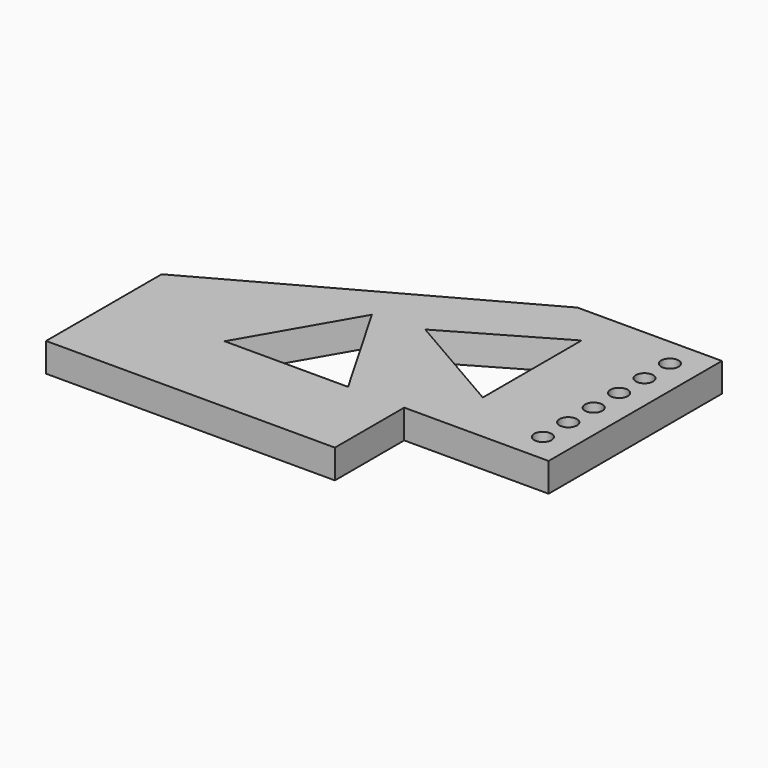
from build123d import *

# Parameters (mm, degrees)
PAD_DEPTH           = 2
SKETCH001_R         = 0.6
HOLE_DEPTH          = 2.001
LINEARPATTERN_COUNT = 6
LINEARPATTERN_PITCH = 2.2
POCKET_DEPTH        = 2.001


with BuildPart() as part:
    # Sketch → Pad (new body)
    with BuildSketch(Plane.XY):
        Polygon((0, 0), (20, 0), (20, 6), (30, 6), (30, 21), (20, 21), (0, 10), align=None)
    extrude(amount=PAD_DEPTH)

    # Sketch001 (on Face9 of Pad) → Hole (cut, through all)
    with BuildSketch(Plane.XY.offset(2)):
        with Locations((28, 19)):
            Circle(SKETCH001_R)
    hole = extrude(amount=-HOLE_DEPTH, mode=Mode.SUBTRACT)

    # LinearPattern: Hole ×6
    with Locations(*[(0, -i * LINEARPATTERN_PITCH, 0) for i in range(1, LINEARPATTERN_COUNT)]):
        add(hole, mode=Mode.SUBTRACT)

    # Sketch002 (on Face5 of LinearPattern) → Pocket (cut, through all)
    with BuildSketch(Plane.XY.offset(2)):
        Polygon((11.837454, 13.403028), (7.563314, 6), (16.111595, 6), align=None)
        Polygon((22.577143, 9.579128), (22.577143, 18.127408), (15.174115, 13.853268), align=None)
    extrude(amount=-POCKET_DEPTH, mode=Mode.SUBTRACT)


solid = part.part
